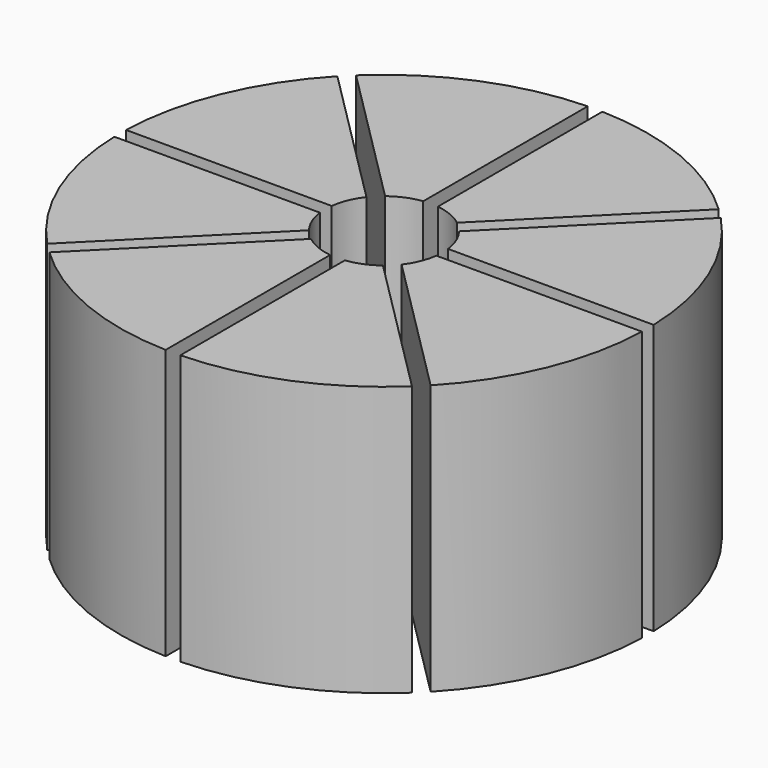
from build123d import *

# Parameters (mm, degrees)
F1_DEPTH = 46


with BuildPart() as f1:
    # F0 (on Top) → F1 (new body)
    with BuildSketch(Plane.XY):
        with BuildLine():
            Line((-1.25, 9.9215674165), (-1.25, 44.9826355386))
            ThreePointArc((-1.25, 44.9826355386), (-17.2207544564, 41.574578963), (-30.9236431485, 32.6914101015))
            Line((-30.9236431485, 32.6914101015), (-6.1317241237, 7.8994910767))
            ThreePointArc((-6.1317241237, 7.8994910767), (-3.8268343237, 9.2387953251), (-1.25, 9.9215674165))
        make_face()
    extrude(amount=F1_DEPTH)


with BuildPart() as f1b:
    # F0 (on Top) → F1, piece 2 (new body)
    with BuildSketch(Plane.XY):
        with BuildLine():
            Line((-7.8994910767, 6.1317241237), (-32.6914101015, 30.9236431485))
            ThreePointArc((-32.6914101015, 30.9236431485), (-41.574578963, 17.2207544564), (-44.9826355386, 1.25))
            Line((-44.9826355386, 1.25), (-9.9215674165, 1.25))
            ThreePointArc((-9.9215674165, 1.25), (-9.2387953251, 3.8268343237), (-7.8994910767, 6.1317241237))
        make_face()
    extrude(amount=F1_DEPTH)


with BuildPart() as f1c:
    # F0 (on Top) → F1, piece 3 (new body)
    with BuildSketch(Plane.XY):
        with BuildLine():
            ThreePointArc((-44.9826355386, -1.25), (-41.574578963, -17.2207544564), (-32.6914101015, -30.9236431485))
            Line((-32.6914101015, -30.9236431485), (-7.8994910767, -6.1317241237))
            ThreePointArc((-7.8994910767, -6.1317241237), (-9.2387953251, -3.8268343237), (-9.9215674165, -1.25))
            Line((-9.9215674165, -1.25), (-44.9826355386, -1.25))
        make_face()
    extrude(amount=F1_DEPTH)


with BuildPart() as f1d:
    # F0 (on Top) → F1, piece 4 (new body)
    with BuildSketch(Plane.XY):
        with BuildLine():
            ThreePointArc((-30.9236431485, -32.6914101015), (-17.2207544564, -41.574578963), (-1.25, -44.9826355386))
            Line((-1.25, -44.9826355386), (-1.25, -9.9215674165))
            ThreePointArc((-1.25, -9.9215674165), (-3.8268343237, -9.2387953251), (-6.1317241237, -7.8994910767))
            Line((-6.1317241237, -7.8994910767), (-30.9236431485, -32.6914101015))
        make_face()
    extrude(amount=F1_DEPTH)


with BuildPart() as f1e:
    # F0 (on Top) → F1, piece 5 (new body)
    with BuildSketch(Plane.XY):
        with BuildLine():
            ThreePointArc((1.25, -44.9826355386), (17.2207544564, -41.574578963), (30.9236431485, -32.6914101015))
            Line((30.9236431485, -32.6914101015), (6.1317241237, -7.8994910767))
            ThreePointArc((6.1317241237, -7.8994910767), (3.8268343237, -9.2387953251), (1.25, -9.9215674165))
            Line((1.25, -9.9215674165), (1.25, -44.9826355386))
        make_face()
    extrude(amount=F1_DEPTH)


with BuildPart() as f1f:
    # F0 (on Top) → F1, piece 6 (new body)
    with BuildSketch(Plane.XY):
        with BuildLine():
            ThreePointArc((32.6914101015, -30.9236431485), (41.574578963, -17.2207544564), (44.9826355386, -1.25))
            Line((44.9826355386, -1.25), (9.9215674165, -1.25))
            ThreePointArc((9.9215674165, -1.25), (9.2387953251, -3.8268343237), (7.8994910767, -6.1317241237))
            Line((7.8994910767, -6.1317241237), (32.6914101015, -30.9236431485))
        make_face()
    extrude(amount=F1_DEPTH)


with BuildPart() as f1g:
    # F0 (on Top) → F1, piece 7 (new body)
    with BuildSketch(Plane.XY):
        with BuildLine():
            Line((9.9215674165, 1.25), (44.9826355386, 1.25))
            ThreePointArc((44.9826355386, 1.25), (41.574578963, 17.2207544564), (32.6914101015, 30.9236431485))
            Line((32.6914101015, 30.9236431485), (7.8994910767, 6.1317241237))
            ThreePointArc((7.8994910767, 6.1317241237), (9.2387953251, 3.8268343237), (9.9215674165, 1.25))
        make_face()
    extrude(amount=F1_DEPTH)


with BuildPart() as f1h:
    # F0 (on Top) → F1, piece 8 (new body)
    with BuildSketch(Plane.XY):
        with BuildLine():
            Line((6.1317241237, 7.8994910767), (30.9236431485, 32.6914101015))
            ThreePointArc((30.9236431485, 32.6914101015), (17.2207544564, 41.574578963), (1.25, 44.9826355386))
            Line((1.25, 44.9826355386), (1.25, 9.9215674165))
            ThreePointArc((1.25, 9.9215674165), (3.8268343237, 9.2387953251), (6.1317241237, 7.8994910767))
        make_face()
    extrude(amount=F1_DEPTH)


solid = Compound([f1.part, f1b.part, f1c.part, f1d.part, f1e.part, f1f.part, f1g.part, f1h.part])
